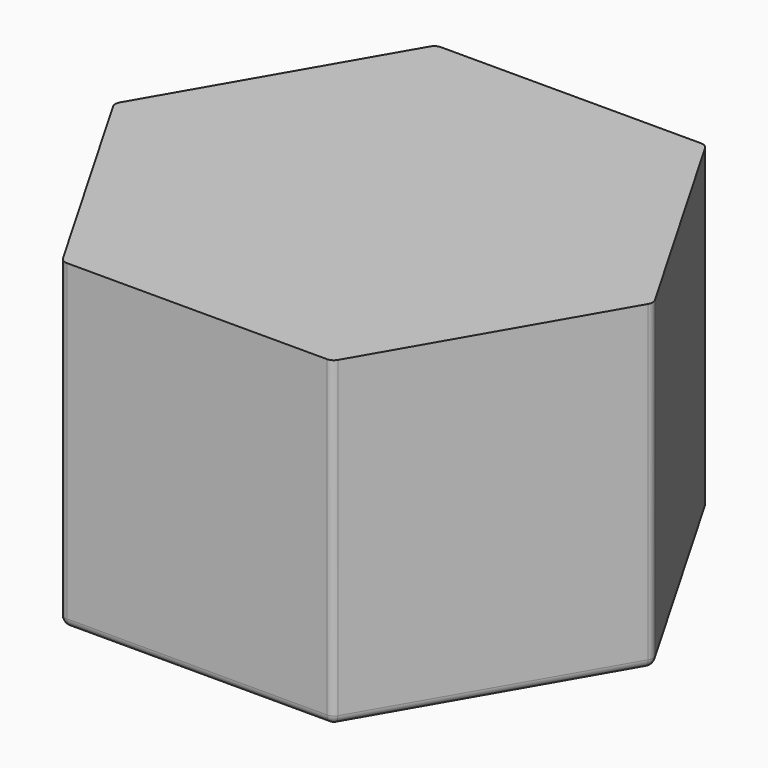
from build123d import *

# Parameters (mm, degrees)
F1_DEPTH = 37.5
F2_R     = 1


with BuildPart() as f1:
    # F0 (on Top) → F1 (new body)
    with BuildSketch(Plane.XY):
        Polygon((-15.732795, -27.25), (15.732795, -27.25), (31.46559, 0), (15.732795, 27.25), (-15.732795, 27.25), (-31.46559, 0), align=None)
    extrude(amount=F1_DEPTH)

    # F2
    f2_edges = [f1.edges().sort_by_distance(p)[0] for p in [
        (0, -27.25, 0),
        (23.599192, -13.625, 0),
        (23.599192, 13.625, 0),
        (0, 27.25, 0),
        (-23.599192, 13.625, 0),
        (-23.599192, -13.625, 0),
        (15.732795, -27.25, 18.75),
        (31.46559, 0, 18.75),
        (-15.732795, -27.25, 18.75),
        (-31.46559, 0, 18.75),
        (-15.732795, 27.25, 18.75),
        (15.732795, 27.25, 18.75),
    ]]
    fillet(f2_edges, radius=F2_R)


solid = f1.part
